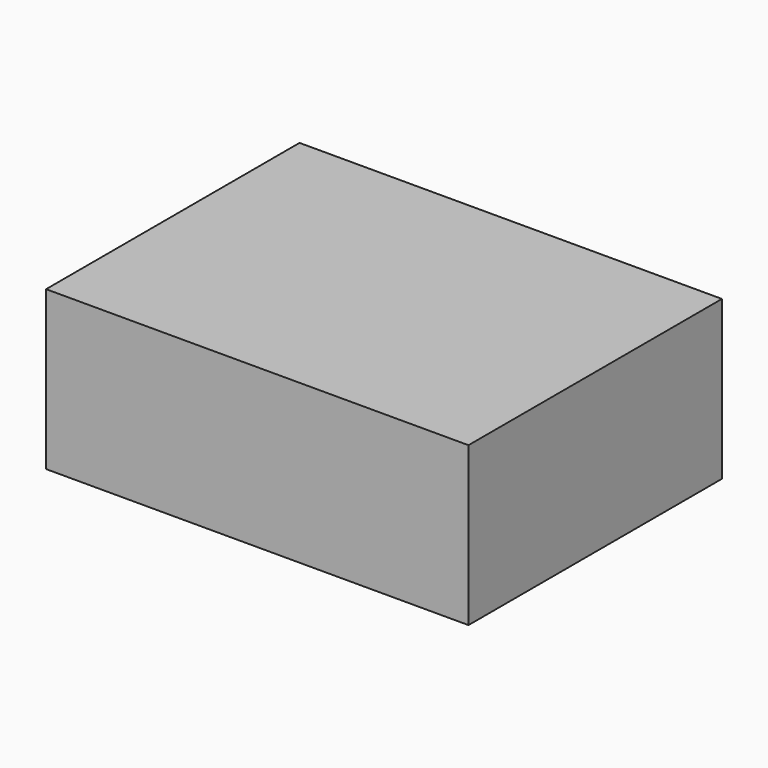
from build123d import *

# Parameters (mm, degrees)
F0_W     = 40
F0_H     = 30
F0_W_2   = 14
F0_H_2   = 22
F0_R     = 4.2582963086
F0_W_3   = 4
F1_DEPTH = 15
F2_DEPTH = 8
F3_DEPTH = 4.4
F4_DEPTH = 4.3


with BuildPart() as f1:
    # F0 (on Top) → F1 (new body)
    with BuildSketch(Plane.XY):
        with Locations((-2.458587151, -7.6971892889)):
            Rectangle(F0_W, F0_H)
        Polygon((-18.458587151, -18.6971892889), (-18.458587151, 3.3028107111), (-4.458587151, 3.3028107111), (-0.458587151, 3.3028107111), (13.541412849, 3.3028107111), (13.541412849, -18.6971892889), (-0.458587151, -18.6971892889), (-4.458587151, -18.6971892889), align=None, mode=Mode.SUBTRACT)
        with Locations((-11.458587151, -7.6971892889)):
            Rectangle(F0_W_2, F0_H_2)
        with Locations((-11.3728679717, -7.7874381095)):
            Circle(F0_R, mode=Mode.SUBTRACT)
        with Locations((6.541412849, -7.6971892889)):
            Rectangle(F0_W_2, F0_H_2)
        with Locations((-2.458587151, -7.6971892889)):
            Rectangle(F0_W_3, F0_H_2)
        with Locations((-11.3728679717, -7.7874381095)):
            Circle(F0_R)
    extrude(amount=F1_DEPTH)

    # F0 (on Top) → F2 (cut)
    with BuildSketch(Plane.XY):
        with Locations((6.541412849, -7.6971892889)):
            Rectangle(F0_W_2, F0_H_2)
        with Locations((-11.458587151, -7.6971892889)):
            Rectangle(F0_W_2, F0_H_2)
        with Locations((-11.3728679717, -7.7874381095)):
            Circle(F0_R, mode=Mode.SUBTRACT)
    extrude(amount=F2_DEPTH, mode=Mode.SUBTRACT)

    # F0 (on Top) → F3 (cut)
    with BuildSketch(Plane.XY):
        with Locations((-11.3728679717, -7.7874381095)):
            Circle(F0_R)
    extrude(amount=F3_DEPTH, mode=Mode.SUBTRACT)

    # F0 (on Top) → F4 (cut)
    with BuildSketch(Plane.XY):
        with Locations((-2.458587151, -7.6971892889)):
            Rectangle(F0_W_3, F0_H_2)
    extrude(amount=F4_DEPTH, mode=Mode.SUBTRACT)


solid = f1.part
